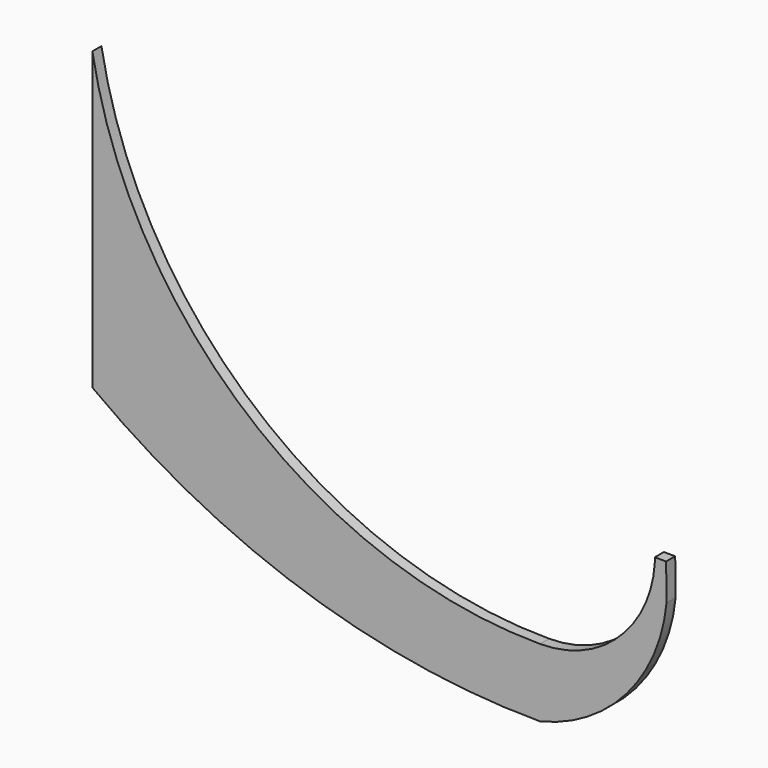
from build123d import *

# Parameters (mm, degrees)
F3_DEPTH = 10


with BuildPart() as f3:
    # F2 (on Front) → F3 (new body)
    with BuildSketch(Plane.XZ):
        with BuildLine():
            ThreePointArc((400, -100), (447.127307, -97.214069), (493.598148, -88.895084))
            ThreePointArc((493.598148, -88.895084), (505.426816, -61.311377), (511.379193, -31.894588))
            Line((511.379193, -31.894588), (510.98747, 0))
            Line((510.98747, 0), (500.98747, 0))
            Line((500.98747, 0), (501.038948, -4.191425))
            ThreePointArc((501.038948, -4.191425), (493.129496, -37.67403), (474.561698, -66.637476))
            ThreePointArc((474.561698, -66.637476), (440.842701, -91.279098), (400, -100))
        make_face()
        with BuildLine():
            Line((5.98747, 22.610795), (5.98747, -29.484774))
            ThreePointArc((5.98747, -29.484774), (192.466811, -126.522127), (400, -160))
            ThreePointArc((400, -160), (454.252189, -134.258366), (493.598148, -88.895084))
            ThreePointArc((493.598148, -88.895084), (447.127307, -97.214069), (400, -100))
            ThreePointArc((400, -100), (142.687028, -6.251587), (5.98747, 231.049827))
            Line((5.98747, 231.049827), (5.98747, 22.610795))
        make_face()
    extrude(amount=F3_DEPTH)


solid = f3.part
